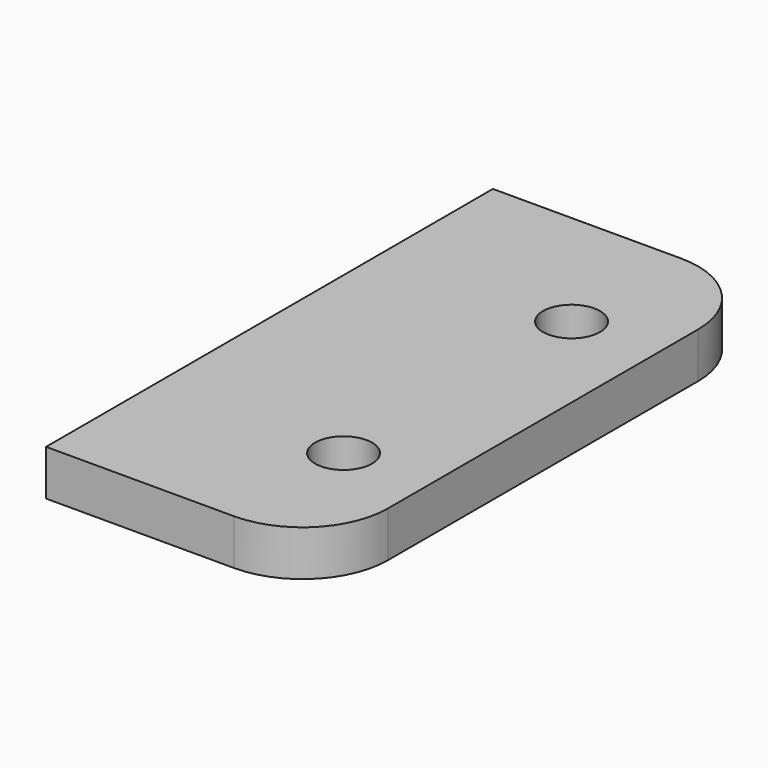
from build123d import *

# Parameters (mm, degrees)
F0_W     = 24
F0_H     = 49
F1_DEPTH = 4
F2_R     = 7.5
F3_R     = 2.5
F4_DEPTH = 5


with BuildPart() as f1:
    # F0 (on Top) → F1 (new body)
    with BuildSketch(Plane.XY):
        Rectangle(F0_W, F0_H)
    extrude(amount=F1_DEPTH)

    # F2
    f2_edges = [f1.edges().sort_by_distance(p)[0] for p in [
        (12, -24.5, 2),
        (12, 24.5, 2),
    ]]
    fillet(f2_edges, radius=F2_R)

    # F3 (on face) → F4 (cut)
    with BuildSketch(Plane.XY.offset(4)):
        with Locations((4.5, 12.5)):
            Circle(F3_R)
        with Locations((4.5, -12.5)):
            Circle(F3_R)
    extrude(amount=-F4_DEPTH, mode=Mode.SUBTRACT)


solid = f1.part
